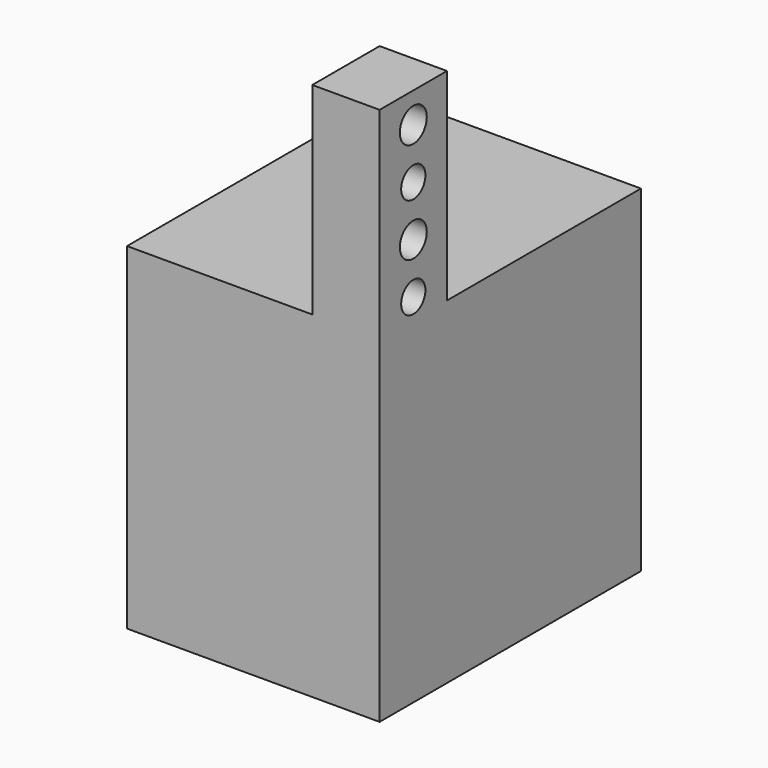
from build123d import *

# Parameters (mm, degrees)
F0_W     = 20
F0_H     = 25
F1_DEPTH = 80
F2_R     = 5
F2_R_2   = 4.5
F3_DEPTH = 25
F4_W     = 20
F4_H     = 20
F5_DEPTH = 72
F6_W     = 97
F6_H     = 20
F7_DEPTH = 55
F8_W     = 75
F8_H     = 97
F9_DEPTH = 80


with BuildPart() as f1:
    # F0 (on Top) → F1 (new body)
    with BuildSketch(Plane.XY):
        with Locations((10, -12.5)):
            Rectangle(F0_W, F0_H)
    extrude(amount=F1_DEPTH)

    # F2 (on face) → F3 (cut)
    with BuildSketch(Plane.YZ.offset(20)):
        with Locations((-12.5, 71)):
            Circle(F2_R)
        with Locations((-12.5, 56)):
            Circle(F2_R_2)
        with Locations((-12.5, 41)):
            Circle(F2_R)
        with Locations((-12.5, 26)):
            Circle(F2_R_2)
    extrude(amount=-F3_DEPTH, mode=Mode.SUBTRACT)

    # F4 (on face) → F5 (join)
    with BuildSketch(Plane(origin=(0, 0, 0), x_dir=(-1, 0, 0), z_dir=(0, 1, 0))):
        with Locations((-10, 10)):
            Rectangle(F4_W, F4_H)
    extrude(amount=F5_DEPTH)

    # F6 (on face) → F7 (join)
    with BuildSketch(Plane(origin=(0, 0, 0), x_dir=(0, -1, 0), z_dir=(-1, 0, 0))):
        with Locations((-23.5, 10)):
            Rectangle(F6_W, F6_H)
    extrude(amount=F7_DEPTH)

    # F8 (on face) → F9 (join)
    with BuildSketch(Plane(origin=(0, 0, 0), x_dir=(1, 0, 0), z_dir=(0, 0, -1))):
        with Locations((-17.5, -23.5)):
            Rectangle(F8_W, F8_H)
    extrude(amount=F9_DEPTH)


solid = f1.part
